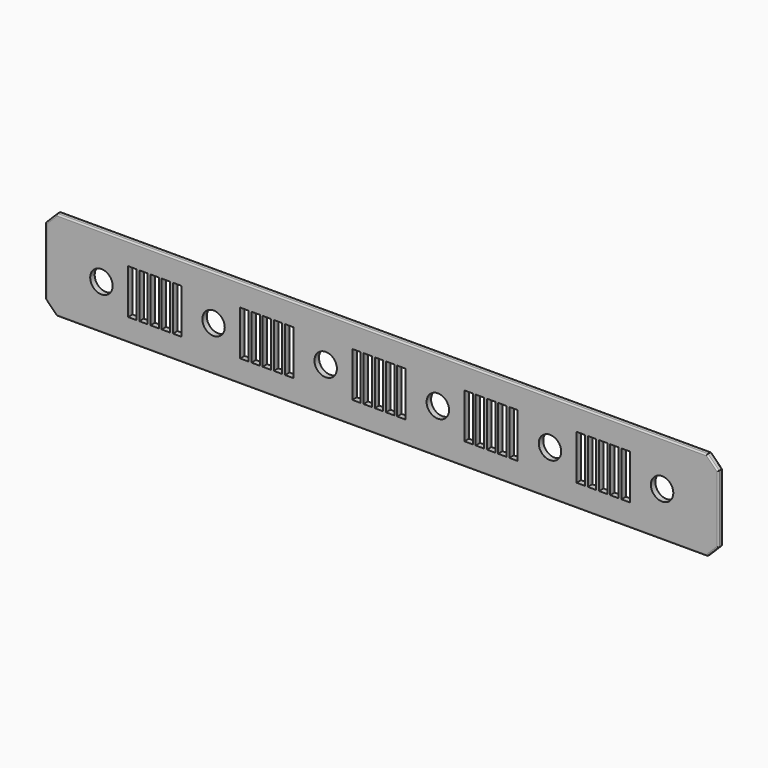
from build123d import *

# Parameters (mm, degrees)
F0_W     = 762
F0_H     = 101.6
F0_R     = 12.7
F1_DEPTH = 6.35
F2_W     = 9.525
F2_H     = 50.8
F3_DEPTH = 6.351
F4_SIZE  = 12.7
F5_R     = 1.6002


with BuildPart() as f1:
    # F0 (on Front) → F1 (new body)
    with BuildSketch(Plane.XZ):
        with Locations((381, 50.8)):
            Rectangle(F0_W, F0_H)
        with Locations((63.5, 50.8)):
            Circle(F0_R, mode=Mode.SUBTRACT)
        with Locations((190.5, 50.8)):
            Circle(F0_R, mode=Mode.SUBTRACT)
        with Locations((317.5, 50.8)):
            Circle(F0_R, mode=Mode.SUBTRACT)
        with Locations((444.5, 50.8)):
            Circle(F0_R, mode=Mode.SUBTRACT)
        with Locations((571.5, 50.8)):
            Circle(F0_R, mode=Mode.SUBTRACT)
        with Locations((698.5, 50.8)):
            Circle(F0_R, mode=Mode.SUBTRACT)
    extrude(amount=F1_DEPTH)

    # F2 (on face) → F3 (cut, through all)
    with BuildSketch(Plane.XZ.offset(6.35)):
        with Locations((98.4377, 50.8)):
            Rectangle(F2_W, F2_H)
        with Locations((111.1377, 50.8)):
            Rectangle(F2_W, F2_H)
        with Locations((123.8377, 50.8)):
            Rectangle(F2_W, F2_H)
        with Locations((136.5377, 50.8)):
            Rectangle(F2_W, F2_H)
        with Locations((149.2377, 50.8)):
            Rectangle(F2_W, F2_H)
        with Locations((225.4377, 50.8)):
            Rectangle(F2_W, F2_H)
        with Locations((238.1377, 50.8)):
            Rectangle(F2_W, F2_H)
        with Locations((250.8377, 50.8)):
            Rectangle(F2_W, F2_H)
        with Locations((263.5377, 50.8)):
            Rectangle(F2_W, F2_H)
        with Locations((276.2377, 50.8)):
            Rectangle(F2_W, F2_H)
        with Locations((352.4377, 50.8)):
            Rectangle(F2_W, F2_H)
        with Locations((365.1377, 50.8)):
            Rectangle(F2_W, F2_H)
        with Locations((377.8377, 50.8)):
            Rectangle(F2_W, F2_H)
        with Locations((390.5377, 50.8)):
            Rectangle(F2_W, F2_H)
        with Locations((403.2377, 50.8)):
            Rectangle(F2_W, F2_H)
        with Locations((479.4377, 50.8)):
            Rectangle(F2_W, F2_H)
        with Locations((492.1377, 50.8)):
            Rectangle(F2_W, F2_H)
        with Locations((504.8377, 50.8)):
            Rectangle(F2_W, F2_H)
        with Locations((517.5377, 50.8)):
            Rectangle(F2_W, F2_H)
        with Locations((530.2377, 50.8)):
            Rectangle(F2_W, F2_H)
        with Locations((606.4377, 50.8)):
            Rectangle(F2_W, F2_H)
        with Locations((619.1377, 50.8)):
            Rectangle(F2_W, F2_H)
        with Locations((631.8377, 50.8)):
            Rectangle(F2_W, F2_H)
        with Locations((644.5377, 50.8)):
            Rectangle(F2_W, F2_H)
        with Locations((657.2377, 50.8)):
            Rectangle(F2_W, F2_H)
    extrude(amount=-F3_DEPTH, mode=Mode.SUBTRACT)

    # F4
    f4_edges = [f1.edges().sort_by_distance(p)[0] for p in [
        (0, -3.175, 101.6),
        (0, -3.175, 0),
        (762, -3.175, 101.6),
        (762, -3.175, 0),
    ]]
    chamfer(f4_edges, length=F4_SIZE)

    # F5
    f5_edges = [f1.edges().sort_by_distance(p)[0] for p in [
        (381, -6.35, 101.6),
        (381, 0, 101.6),
        (381, -6.35, 0),
        (381, 0, 0),
        (6.35, -6.35, 95.25),
        (6.35, 0, 95.25),
        (0, -6.35, 50.8),
        (0, 0, 50.8),
        (6.35, -6.35, 6.35),
        (6.35, 0, 6.35),
        (755.65, -6.35, 95.25),
        (755.65, 0, 95.25),
        (762, -6.35, 50.8),
        (762, 0, 50.8),
        (755.65, -6.35, 6.35),
        (755.65, 0, 6.35),
    ]]
    fillet(f5_edges, radius=F5_R)


solid = f1.part
